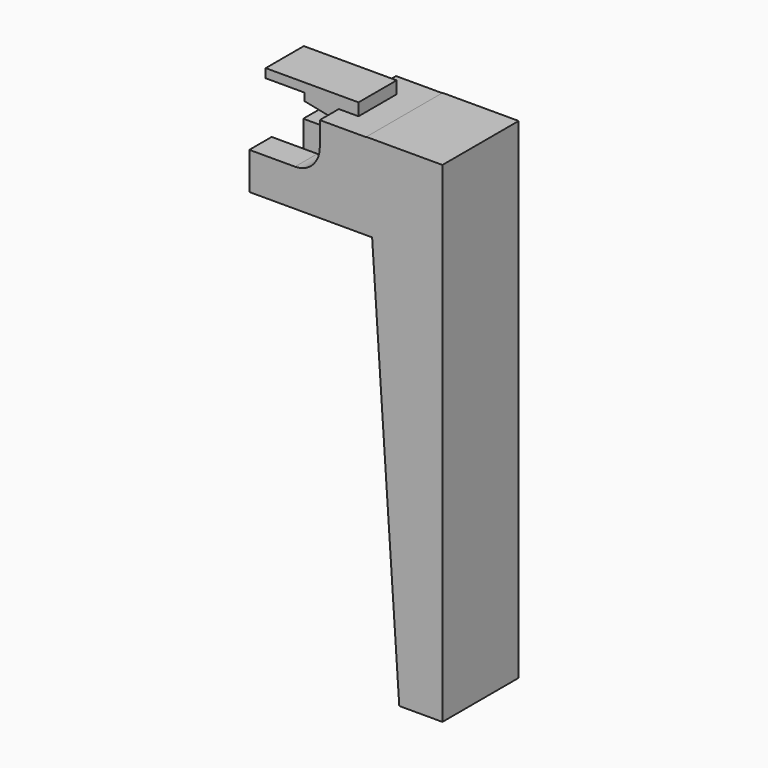
from build123d import *

# Parameters (mm, degrees)
F0_W      = 30
F0_H      = 19
F1_DEPTH  = 10.5
F3_DEPTH  = 4.35
F6_DEPTH  = 12.5
F7_DEPTH  = 10.5
F9_DEPTH  = 5.25
F11_DEPTH = 10.5


with BuildPart() as f1:
    # F0 (on Front) → F1 (new body, symmetric)
    with BuildSketch(Plane.XZ):
        with Locations((-40.8455379754, 6.5018872991)):
            Rectangle(F0_W, F0_H)
    extrude(amount=F1_DEPTH, both=True)

    # F2 (on Front) → F3 (cut, symmetric)
    with BuildSketch(Plane.XZ):
        Polygon((-39.8867149711, 0), (-31.6867149711, 0), (-31.6867149711, 10.7), (-39.8867149711, 11.8163746178), (-39.8550798476, 12.8947440535), (-48.5550798476, 12.8947440535), (-48.5708974093, 14.4973720267), (-48.5867149711, 16.1), (-56.2867149711, 16.1), (-56.2867149711, 0), align=None)
        Polygon((-31.6346511245, -4.0566790849), (-31.6867149711, 0), (-39.8867149711, 0), (-56.2867149711, 0), (-56.2867149711, -4.0566790849), align=None)
        Polygon((-48.5550798476, 12.8947440535), (-39.8550798476, 12.8947440535), (-48.5708974093, 14.4973720267), align=None)
    extrude(amount=F3_DEPTH, both=True, mode=Mode.SUBTRACT)

    # F5 (on Top) → F6 (cut, symmetric)
    with BuildSketch(Plane.XY):
        Polygon((-31.664647162, -3.3765389722), (-45.2137924731, -4.4331237346), (-31.664647162, -4.4641996406), align=None)
        Polygon((-31.664647162, 4.4641996406), (-45.2137924731, 4.4331237346), (-31.664647162, 3.3765389722), align=None)
    extrude(amount=F6_DEPTH, both=True, mode=Mode.SUBTRACT)

    # F4 (on Front) → F7 (cut, symmetric)
    with BuildSketch(Plane.XZ):
        with BuildLine():
            Line((-45.7834748578, 16.0856869832), (-56.2834748578, 16.0856869832))
            Line((-56.2834748578, 16.0856869832), (-56.2834748578, 5.1856869832))
            Line((-56.2834748578, 5.1856869832), (-45.7834748578, 5.1856869832))
            ThreePointArc((-45.7834748578, 5.1856869832), (-41.9297429004, 6.7819550257), (-40.3334748578, 10.6356869832))
            ThreePointArc((-40.3334748578, 10.6356869832), (-41.9297429004, 14.4894189406), (-45.7834748578, 16.0856869832))
        make_face()
        with BuildLine():
            Line((-40.3334748578, 16.0856869832), (-45.7834748578, 16.0856869832))
            ThreePointArc((-45.7834748578, 16.0856869832), (-41.9297429004, 14.4894189406), (-40.3334748578, 10.6356869832))
            Line((-40.3334748578, 10.6356869832), (-40.3334748578, 16.0856869832))
        make_face()
    extrude(amount=F7_DEPTH, both=True, mode=Mode.SUBTRACT)

    # F8 (on Front) → F9 (join, symmetric)
    with BuildSketch(Plane.XZ):
        Polygon((-36.0005199909, 18.7051203102), (-56.4405918121, 18.7051203102), (-56.4405918121, 16.7337413877), (-47.9325428605, 16.7337413877), (-47.9325428605, 15.0736346841), (-41.1883555353, 13.7247974053), (-36.0005199909, 13.7247974053), align=None)
    extrude(amount=F9_DEPTH, both=True)

    # F10 (on Front) → F11 (join, symmetric)
    with BuildSketch(Plane.XZ):
        Polygon((-13.3185807616, 16.0780958831), (-25.8185807616, 16.0780958831), (-30.0829801708, 16.0780958831), (-22.8185807616, -91.9219041169), (-13.3185807616, -91.9219041169), align=None)
    extrude(amount=F11_DEPTH, both=True)


solid = f1.part
